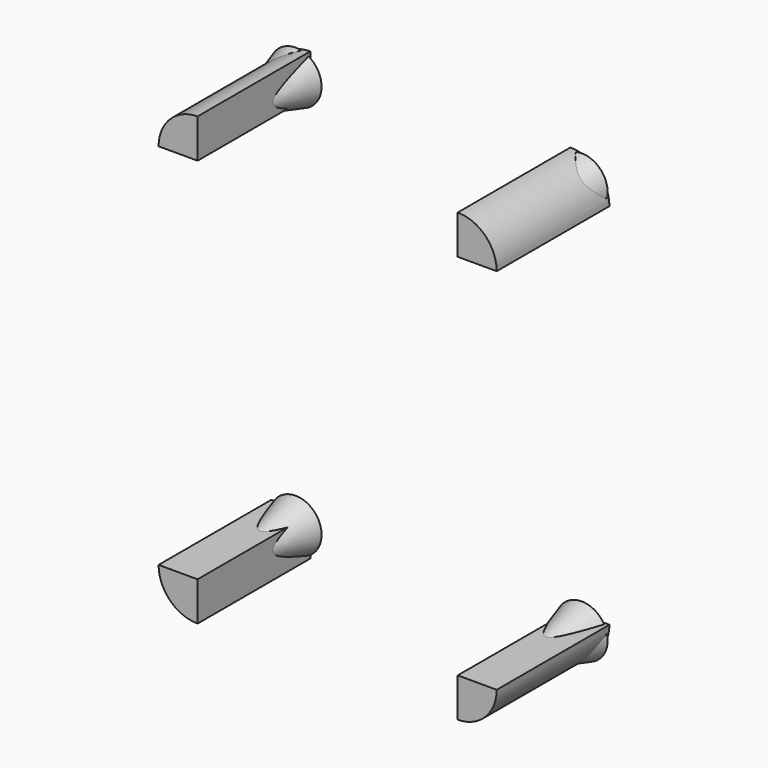
from build123d import *

# Parameters (mm, degrees)
CYLINDER031_W     = 9
CYLINDER031_H     = 32.5
CYLINDER031_ANGLE = 90


with BuildPart() as m3hold:
    # Cylinder031 → Cylinder031 (revolve)
    with BuildSketch(Plane(origin=(9, 24.5, -6), x_dir=(-1, 0, 0), z_dir=(0, 0, 1))):
        with Locations((4.5, 16.25)):
            Rectangle(CYLINDER031_W, CYLINDER031_H)
    revolve(axis=Axis((9, 24.5, -6), (0, -1, 0)), revolution_arc=CYLINDER031_ANGLE)


with BuildPart() as m3hold001:
    # Cone → Cone (revolve)
    with BuildSketch(Plane(origin=(6, 24, -9), x_dir=(1, 0, 0), z_dir=(0, 0, -1))):
        Polygon((0, 0), (6, 0), (2.8, 11), (0, 11), align=None)
    revolve(axis=Axis((6, 24, -9), (0, -1, 0)))

    # Fusion037: union m3Hold
    add(m3hold.part)


with BuildPart() as fusion038:
    # Part__Mirroring007: instance of m3Hold001
    add(m3hold001.part.mirror(Plane(origin=(0, 0, 0), x_dir=(0, -1, 0), z_dir=(1, 0, 0))))


with BuildPart() as fusion038_1:
    # Part__Mirroring007 placement: moved
    add(fusion038.part.moved(Location((78, 0, 0))))

    # Fusion038: union m3Hold001
    add(m3hold001.part)


with BuildPart() as stands:
    # Part__Mirroring008: instance of Fusion038
    add(fusion038_1.part.mirror(Plane(origin=(0, 0, 0), x_dir=(0, 1, 0), z_dir=(0, 0, 1))))


with BuildPart() as stands_1:
    # Part__Mirroring008 placement: moved
    add(stands.part.moved(Location((0, 0, 73))))

    # Fusion039: union Fusion038
    add(fusion038_1.part)


solid = stands_1.part
